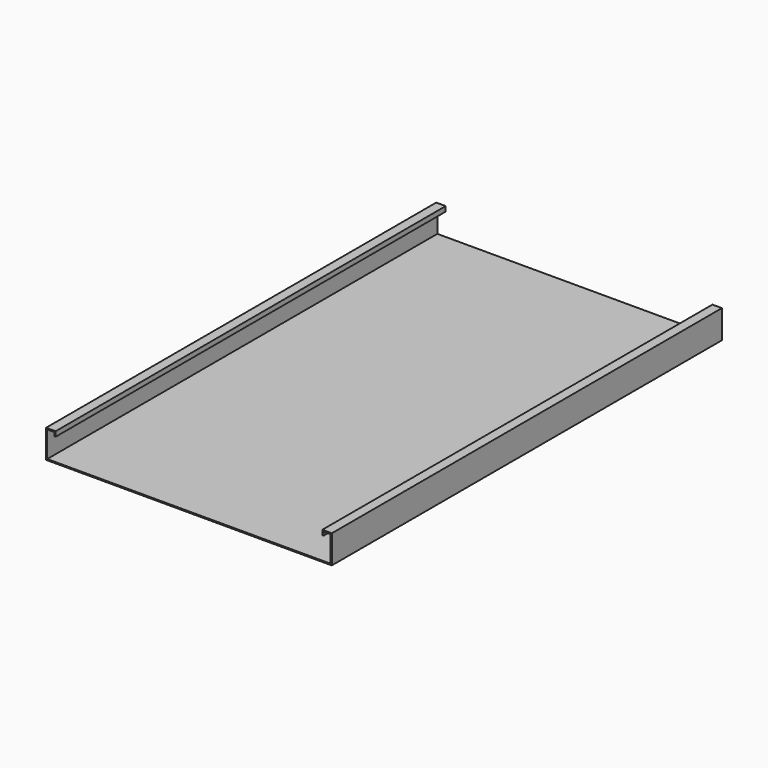
from build123d import *

# Parameters (mm, degrees)
F1_DEPTH = 359


with BuildPart() as f1:
    # F0 (on Front) → F1 (new body, symmetric)
    with BuildSketch(Plane.XZ):
        Polygon((-210.35, 40.85), (-210.35, 0.85), (-208.65, 0.85), (-208.65, 39.15), (-198.05, 39.15), (-198.05, 33.65), (-196.35, 33.65), (-196.35, 40.85), align=None)
        Polygon((-208.65, 0.85), (-210.35, 0.85), (-210.35, -0.85), (210.35, -0.85), (210.35, 0.85), (208.65, 0.85), align=None)
        Polygon((208.65, 39.15), (208.65, 0.85), (210.35, 0.85), (210.35, 40.85), (196.35, 40.85), (196.35, 33.65), (198.05, 33.65), (198.05, 39.15), align=None)
    extrude(amount=F1_DEPTH, both=True)


solid = f1.part
